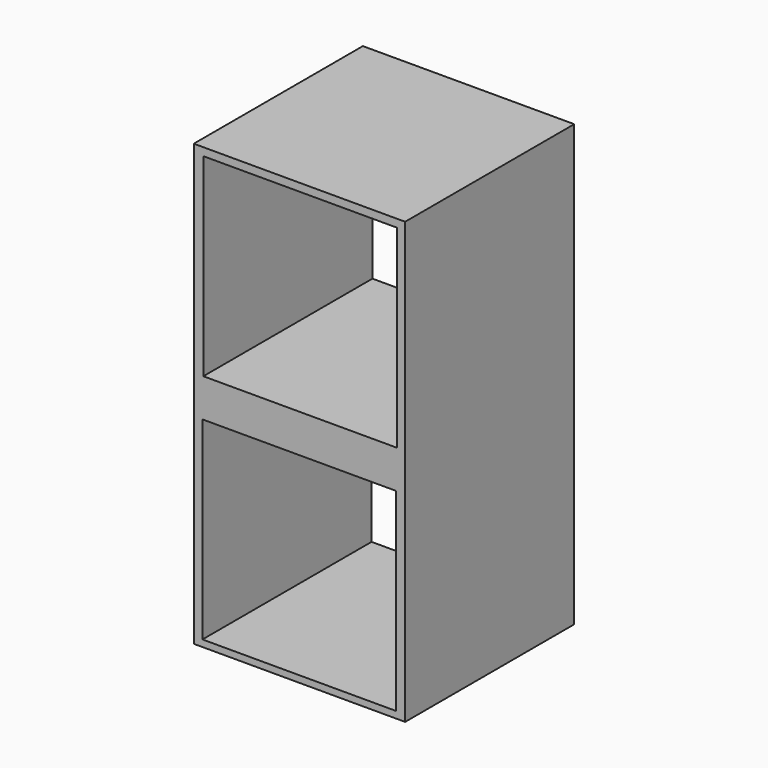
from build123d import *

# Parameters (mm, degrees)
F0_W     = 304.8
F0_H     = 304.8
F0_W_2   = 279.4
F0_H_2   = 279.4
F0_H_3   = 25.4
F1_DEPTH = 304.8


with BuildPart() as f1:
    # F0 (on Front) → F1 (new body)
    with BuildSketch(Plane.XZ):
        with Locations((-91.838791, 6.933614)):
            Rectangle(F0_W, F0_H)
        with Locations((-90.767394, 8.264561)):
            Rectangle(F0_W_2, F0_H_2, mode=Mode.SUBTRACT)
        with Locations((-91.838791, -158.166386)):
            Rectangle(F0_W, F0_H_3)
        with Locations((-91.838791, -323.266386)):
            Rectangle(F0_W, F0_H)
        with Locations((-92.010643, -326.307859)):
            Rectangle(F0_W_2, F0_H_2, mode=Mode.SUBTRACT)
    extrude(amount=F1_DEPTH)


solid = f1.part
